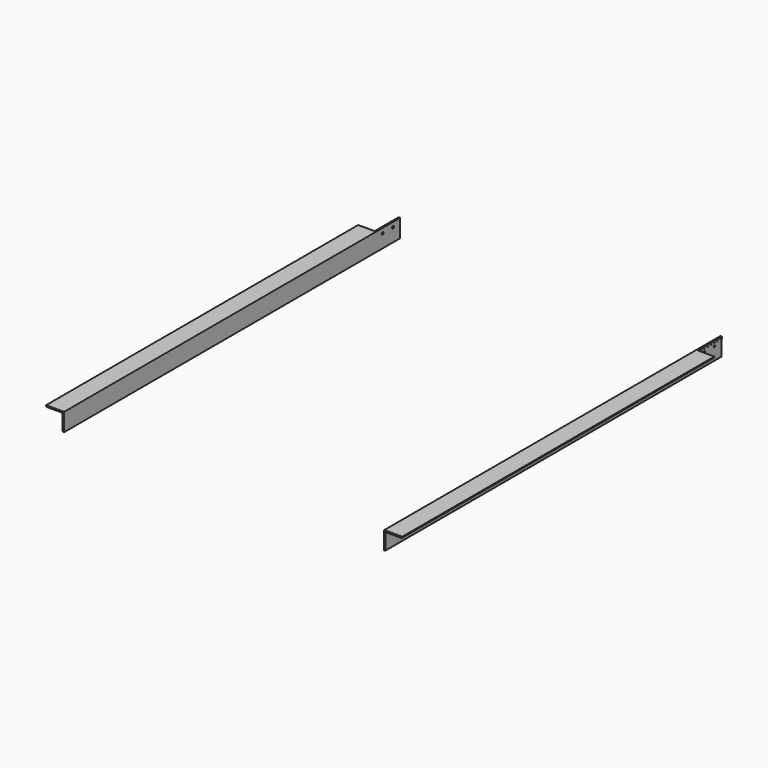
from build123d import *

# Parameters (mm, degrees)
F1_DEPTH       = 2100
F2_W           = 90
F2_H           = 150
F3_DEPTH       = 25
F5_D           = 10
F5_DEPTH       = 30
F5_CSINK_D     = 12
F5_CSINK_ANGLE = 90


with BuildPart() as f1:
    # F0 (on Front) → F1 (new body)
    with BuildSketch(Plane.XZ):
        with BuildLine():
            Line((90, 0), (0, 0))
            Line((0, 0), (0, -90))
            Line((0, -90), (3, -90))
            ThreePointArc((3, -90), (5.828427, -88.828427), (7, -86))
            Line((7, -86), (7, -11))
            ThreePointArc((7, -11), (8.171573, -8.171573), (11, -7))
            Line((11, -7), (86, -7))
            ThreePointArc((86, -7), (88.828427, -5.828427), (90, -3))
            Line((90, -3), (90, 0))
        make_face()
    extrude(amount=-F1_DEPTH)

    # F2 (on face) → F3 (cut)
    with BuildSketch(Plane.XY):
        with Locations((53, 2025)):
            Rectangle(F2_W, F2_H)
    extrude(amount=-F3_DEPTH, mode=Mode.SUBTRACT)

    # F5
    with Locations(Plane(origin=(0, 0, 0), x_dir=(0, -1, 0), z_dir=(-1, 0, 0))):
        with Locations((-2055, -24), (-1990, -24)):
            CounterSinkHole(F5_D / 2, F5_CSINK_D / 2, depth=F5_DEPTH, counter_sink_angle=F5_CSINK_ANGLE)


with BuildPart() as f7_1:
    # F7: instance of F1
    add(f1.part.mirror(Plane.YZ.offset(-800)))


solid = Compound([f1.part, f7_1.part])
